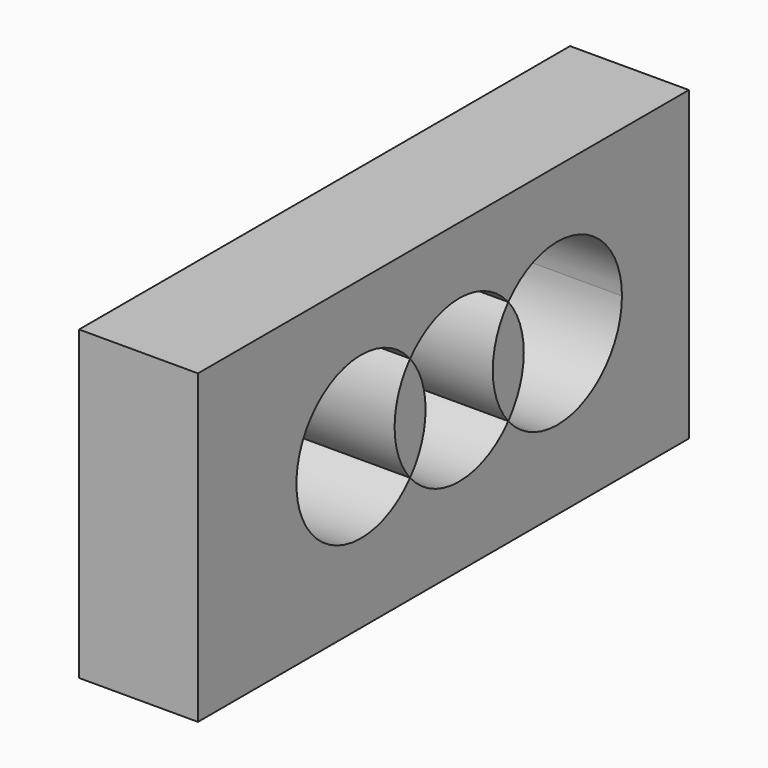
from build123d import *

# Parameters (mm, degrees)
F0_W     = 38.7456268072
F0_H     = 200
F1_DEPTH = 100
F3_DEPTH = 200


with BuildPart() as f1:
    # F0 (on Top) → F1 (new body)
    with BuildSketch(Plane.XY):
        with Locations((-73.7745165825, 279.8631054312)):
            Rectangle(F0_W, F0_H)
    extrude(amount=F1_DEPTH)

    # F2 (on face) → F3 (cut)
    with BuildSketch(Plane.YZ.offset(-54.4017031789)):
        with BuildLine():
            ThreePointArc((266.273547411, 34.9062763701), (259.9666993684, 51.9957542419), (266.273547411, 69.0852321138))
            ThreePointArc((266.273547411, 69.0852321138), (219.9666993684, 51.9957542419), (266.273547411, 34.9062763701))
        make_face()
        with BuildLine():
            ThreePointArc((266.273547411, 69.0852321138), (270.9533692781, 61.1038081801), (272.5803954535, 51.9957542419))
            ThreePointArc((272.5803954535, 51.9957542419), (270.9533692781, 42.8877003037), (266.273547411, 34.9062763701))
            ThreePointArc((266.273547411, 34.9062763701), (286.273547411, 25.6889061994), (306.273547411, 34.9062763701))
            ThreePointArc((306.273547411, 34.9062763701), (299.9666993684, 51.9957542419), (306.273547411, 69.0852321138))
            ThreePointArc((306.273547411, 69.0852321138), (286.273547411, 78.3026022845), (266.273547411, 69.0852321138))
        make_face()
        with BuildLine():
            ThreePointArc((352.5803954535, 51.9957542419), (335.3816013492, 76.675576109), (306.273547411, 69.0852321138))
            ThreePointArc((306.273547411, 69.0852321138), (310.9533692781, 61.1038081801), (312.5803954535, 51.9957542419))
            ThreePointArc((312.5803954535, 51.9957542419), (310.9533692781, 42.8877003037), (306.273547411, 34.9062763701))
            ThreePointArc((306.273547411, 34.9062763701), (335.3816013492, 27.3159323748), (352.5803954535, 51.9957542419))
        make_face()
    extrude(amount=-F3_DEPTH, mode=Mode.SUBTRACT)


solid = f1.part
